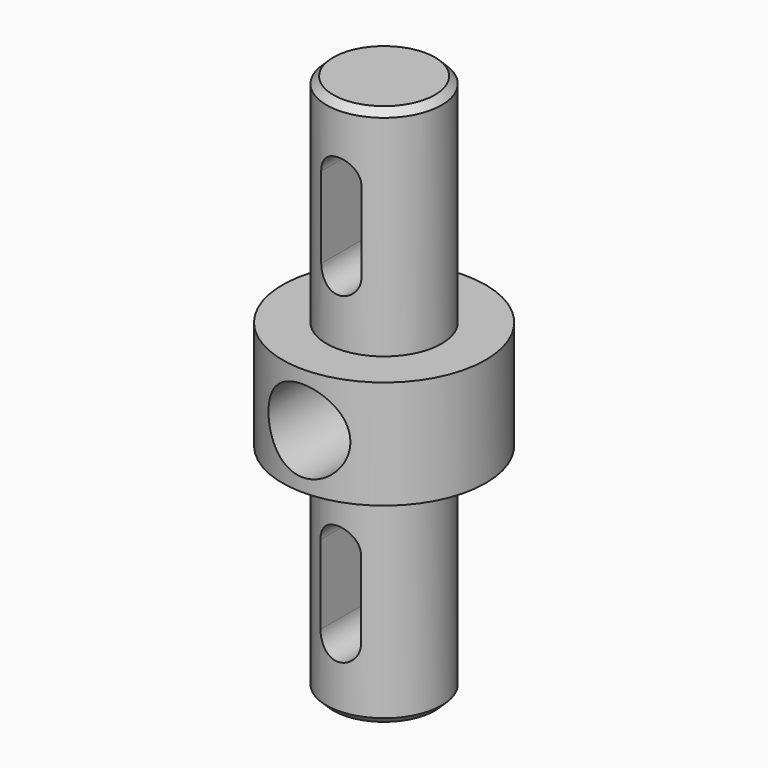
from build123d import *

# Parameters (mm, degrees)
F0_R      = 8.5
F1_DEPTH  = 32
F4_DEPTH  = 32.4
F5_SIZE   = 1
F6_R      = 15
F7_DEPTH  = 16
F8_R      = 8.5
F9_DEPTH  = 32
F10_SIZE  = 1
F13_DEPTH = 46.1
F15_R     = 6.055959
F16_DEPTH = 53.1


with BuildPart() as f1:
    # F0 (on Top) → F1 (new body)
    with BuildSketch(Plane.XY):
        with Locations((-31.744916, 24.020635)):
            Circle(F0_R)
    extrude(amount=F1_DEPTH)

    # F3 (on offset) → F4 (cut)
    with BuildSketch(Plane.XZ.offset(-33)):
        with BuildLine():
            ThreePointArc((-28.736681, 21.964274), (-31.682465, 24.910059), (-34.62825, 21.964274))
            Line((-34.62825, 21.964274), (-34.62825, 9.964274))
            ThreePointArc((-34.62825, 9.964274), (-31.682465, 7.01849), (-28.736681, 9.964274))
            Line((-28.736681, 9.964274), (-28.736681, 21.964274))
        make_face()
    extrude(amount=F4_DEPTH, mode=Mode.SUBTRACT)

    # F5
    f5_edges = [f1.edges().sort_by_distance(p)[0] for p in [
        (-40.244916, 24.020635, 32),
    ]]
    chamfer(f5_edges, length=F5_SIZE)

    # F6 (on face) → F7 (join)
    with BuildSketch(Plane(origin=(0, 0, 0), x_dir=(1, 0, 0), z_dir=(0, 0, -1))):
        with Locations((-31.744916, -24.020635)):
            Circle(F6_R)
    extrude(amount=F7_DEPTH)

    # F8 (on face) → F9 (join)
    with BuildSketch(Plane(origin=(0, 0, -16), x_dir=(1, 0, 0), z_dir=(0, 0, -1))):
        with Locations((-31.744916, -24.020635)):
            Circle(F8_R)
    extrude(amount=F9_DEPTH)

    # F10
    f10_edges = [f1.edges().sort_by_distance(p)[0] for p in [
        (-40.244916, 24.020635, -48),
    ]]
    chamfer(f10_edges, length=F10_SIZE)

    # F12 (on offset) → F13 (cut)
    with BuildSketch(Plane.XZ.offset(-35.2)):
        with BuildLine():
            Line((-28.785402, -37.644354), (-28.785402, -25.994403))
            ThreePointArc((-28.785402, -25.994403), (-31.785402, -22.994403), (-34.785402, -25.994403))
            Line((-34.785402, -25.994403), (-34.785402, -37.644354))
            ThreePointArc((-34.785402, -37.644354), (-31.785402, -40.644354), (-28.785402, -37.644354))
        make_face()
    extrude(amount=F13_DEPTH, mode=Mode.SUBTRACT)

    # F15 (on offset) → F16 (cut)
    with BuildSketch(Plane.XZ.offset(-41.4)):
        with Locations((-31.784016, -7.985172)):
            Circle(F15_R)
    extrude(amount=F16_DEPTH, mode=Mode.SUBTRACT)


solid = f1.part
